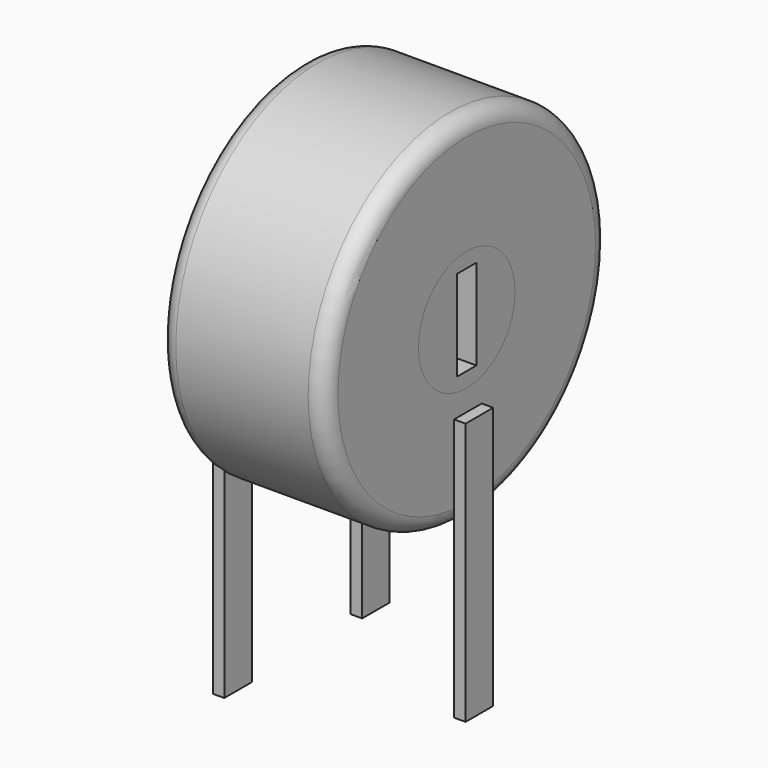
from build123d import *

# Parameters (mm, degrees)
SKETCH001_R       = 1.75
SKETCH001_W       = 0.7
SKETCH001_H       = 2.625
PAD001_DEPTH      = 4.8
SKETCH_R          = 5.15
SKETCH_R_2        = 1.75
PAD_DEPTH         = 4.8
FILLET_R          = 0.48
SKETCH003_W       = 0.333334
SKETCH003_H       = 1
PAD002_DEPTH      = 4.616667
PAD002_DEPTH_BACK = 3


with BuildPart() as pad001:
    # Sketch001 → Pad001 (new body)
    with BuildSketch(Plane.YZ):
        with Locations((-2.5, 6.95)):
            Circle(SKETCH001_R)
        with Locations((-2.5, 6.95)):
            Rectangle(SKETCH001_W, SKETCH001_H, mode=Mode.SUBTRACT)
    extrude(amount=PAD001_DEPTH)


with BuildPart() as fillet_body:
    # Sketch → Pad (new body)
    with BuildSketch(Plane.YZ):
        with Locations((-2.5, 6.95)):
            Circle(SKETCH_R)
        with Locations((-2.5, 6.95)):
            Circle(SKETCH_R_2, mode=Mode.SUBTRACT)
    extrude(amount=PAD_DEPTH)

    # Fillet
    fillet_edges = [fillet_body.edges().sort_by_distance(p)[0] for p in [
        (0, -7.65, 6.95),
        (4.8, -7.65, 6.95),
    ]]
    fillet(fillet_edges, radius=FILLET_R)


with BuildPart() as pad002:
    # Sketch003 → Pad002 (new body, two sides)
    with BuildSketch(Plane.XY) as pad002_sk:
        Rectangle(SKETCH003_W, SKETCH003_H)
        with Locations((5, -2.5)):
            Rectangle(SKETCH003_W, SKETCH003_H)
        with Locations((0, -5)):
            Rectangle(SKETCH003_W, SKETCH003_H)
    extrude(amount=PAD002_DEPTH)
    extrude(pad002_sk.sketch, amount=-PAD002_DEPTH_BACK)


solid = Compound([pad001.part, fillet_body.part, pad002.part])
